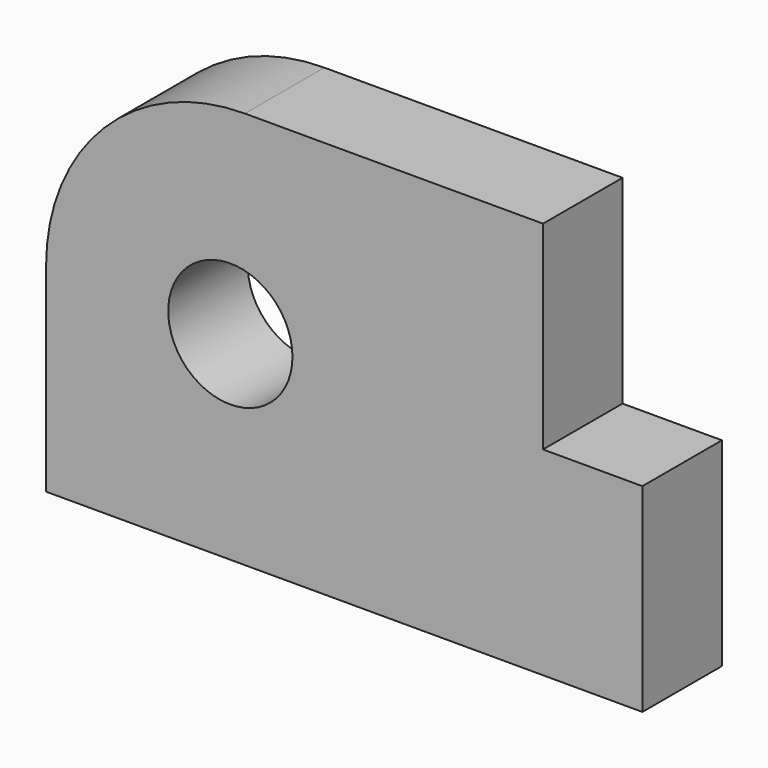
from build123d import *

# Parameters (mm, degrees)
F0_R     = 1.984375
F1_DEPTH = 3.175


with BuildPart() as f1:
    # F0 (on Front) → F1 (new body)
    with BuildSketch(Plane.XZ):
        with BuildLine():
            Line((0, 6.35), (0, 0))
            Line((0, 0), (19.05, 0))
            Line((19.05, 0), (19.05, 6.35))
            Line((19.05, 6.35), (15.875, 6.35))
            Line((15.875, 6.35), (15.875, 12.7))
            Line((15.875, 12.7), (6.35, 12.7))
            ThreePointArc((6.35, 12.7), (1.859872, 10.840128), (0, 6.35))
        make_face()
        with Locations((5.886078, 6.35)):
            Circle(F0_R, mode=Mode.SUBTRACT)
    extrude(amount=F1_DEPTH)


solid = f1.part
